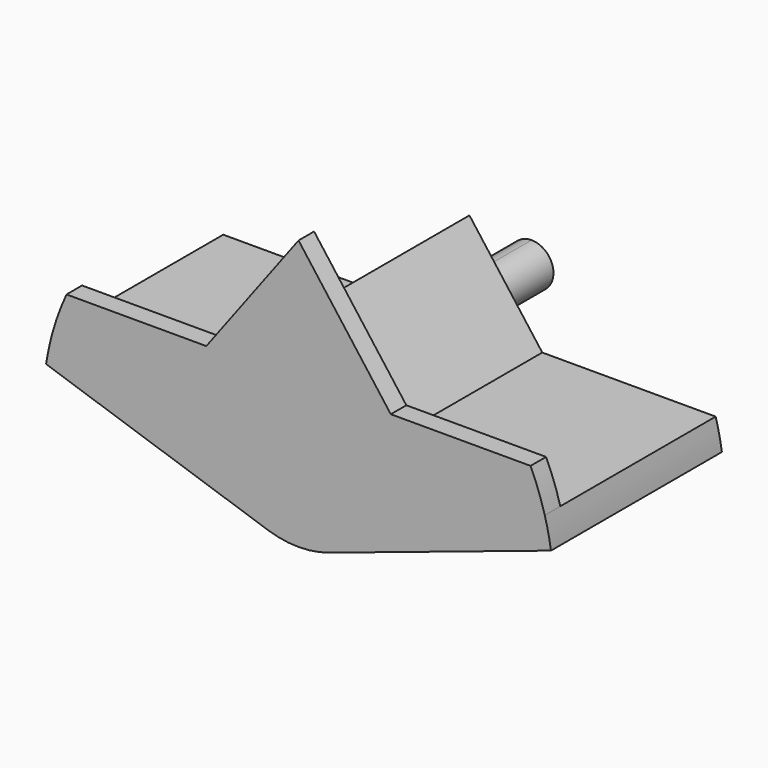
from build123d import *

# Parameters (mm, degrees)
F0_R     = 1.5
F1_DEPTH = 10
F4_DEPTH = 4
F2_R     = 1.5
F5_DEPTH = 2
F6_R     = 1.5
F7_DEPTH = 0.02
F9_DEPTH = 1


with BuildPart() as f1:
    # F0 (on Front) → F1 (new body)
    with BuildSketch(Plane.XZ):
        with BuildLine():
            Line((-3.75, 3.5), (-12.678722, 3.5))
            ThreePointArc((-12.678722, 3.5), (-12.861248, 2.754688), (-13, 2))
            Line((-13, 2), (-1.581139, -1.806287))
            ThreePointArc((-1.581139, -1.806287), (0, -2.062871), (1.581139, -1.806287))
            Line((1.581139, -1.806287), (13, 2))
            ThreePointArc((13, 2), (12.861248, 2.754688), (12.678722, 3.5))
            Line((12.678722, 3.5), (3.75, 3.5))
            Line((3.75, 3.5), (0, 8.5))
            Line((0, 8.5), (-3.75, 3.5))
        make_face()
        Circle(F0_R, mode=Mode.SUBTRACT)
    extrude(amount=F1_DEPTH)

    # F3 (on face) → F4 (join)
    with BuildSketch(Plane(origin=(0, 0, 0), x_dir=(-1, 0, 0), z_dir=(0, 1, 0))):
        with BuildLine():
            Line((0, 3.5), (0, 5.75))
            ThreePointArc((0, 5.75), (-1.125, 4.625), (0, 3.5))
        make_face()
        with BuildLine():
            ThreePointArc((0, 3.5), (0.795495, 3.829505), (1.125, 4.625))
            ThreePointArc((1.125, 4.625), (0.795495, 5.420495), (0, 5.75))
            Line((0, 5.75), (0, 3.5))
        make_face()
    extrude(amount=F4_DEPTH)

    # F2 (on face) → F5 (join)
    with BuildSketch(Plane.XZ.offset(10)):
        Circle(F2_R)
    extrude(amount=-F5_DEPTH)

    # F6 (on face) → F7 (join)
    with BuildSketch(Plane(origin=(0, 0, 0), x_dir=(-1, 0, 0), z_dir=(0, 1, 0))):
        with BuildLine():
            ThreePointArc((0, -2), (1.414214, -1.414214), (2, 0))
            ThreePointArc((2, 0), (-1.414214, 1.414214), (0, -2))
        make_face()
        Circle(F6_R, mode=Mode.SUBTRACT)
    extrude(amount=F7_DEPTH)

    # F8 (on face) → F9 (join)
    with BuildSketch(Plane.XZ.offset(10)):
        with BuildLine():
            Line((0, 11.833333), (-4.75, 5.5))
            Line((-4.75, 5.5), (-11.947803, 5.5))
            ThreePointArc((-11.947803, 5.5), (-12.353803, 4.514816), (-12.678722, 3.5))
            Line((-12.678722, 3.5), (-3.75, 3.5))
            Line((-3.75, 3.5), (0, 8.5))
            Line((0, 8.5), (3.75, 3.5))
            Line((3.75, 3.5), (12.678722, 3.5))
            ThreePointArc((12.678722, 3.5), (12.353803, 4.514816), (11.947803, 5.5))
            Line((11.947803, 5.5), (4.75, 5.5))
            Line((4.75, 5.5), (0, 11.833333))
        make_face()
        with BuildLine():
            Line((-3.75, 3.5), (-12.678722, 3.5))
            ThreePointArc((-12.678722, 3.5), (-12.861248, 2.754688), (-13, 2))
            Line((-13, 2), (-1.581139, -1.806287))
            ThreePointArc((-1.581139, -1.806287), (0, -2.062871), (1.581139, -1.806287))
            Line((1.581139, -1.806287), (13, 2))
            ThreePointArc((13, 2), (12.861248, 2.754688), (12.678722, 3.5))
            Line((12.678722, 3.5), (3.75, 3.5))
            Line((3.75, 3.5), (0, 8.5))
            Line((0, 8.5), (-3.75, 3.5))
        make_face()
    extrude(amount=F9_DEPTH)


solid = f1.part
